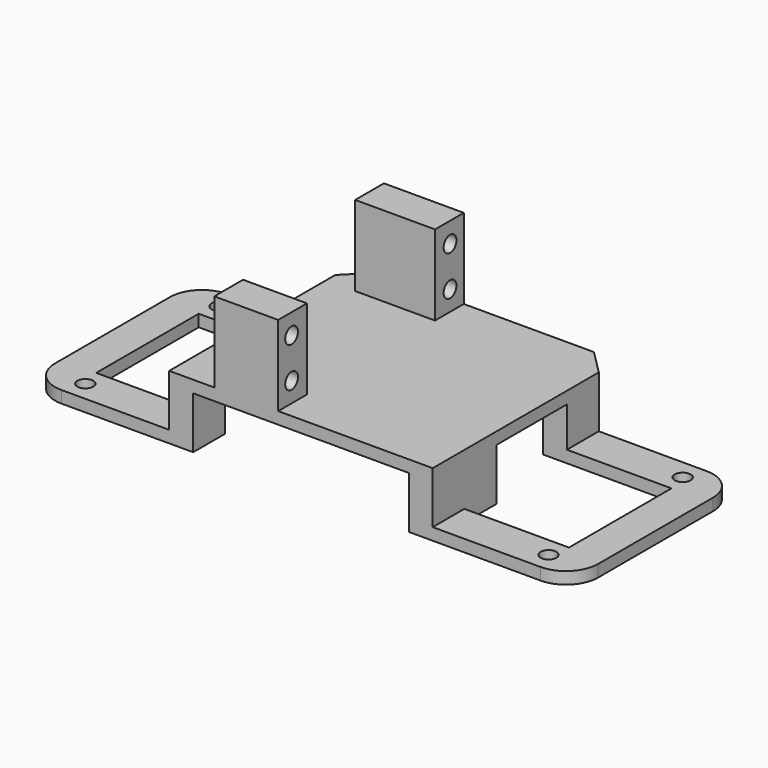
from build123d import *

# Parameters (mm, degrees)
CYLINDER382_R     = 2
CYLINDER382_DEPTH = 70
CYLINDER383_R     = 2
CYLINDER383_DEPTH = 70
BOX476_W          = 8.8
BOX476_H          = 52
BOX476_DEPTH      = 3
BOX473_W          = 41
BOX473_H          = 10
BOX473_DEPTH      = 3
BOX471_W          = 41
BOX471_H          = 9.9
BOX471_DEPTH      = 3
FILLET021_R       = 8
BOX411_W          = 6
BOX411_H          = 10
BOX411_DEPTH      = 16
BOX286_W          = 6
BOX286_H          = 9.9
BOX286_DEPTH      = 16
BOX409_W          = 6
BOX409_H          = 10
BOX409_DEPTH      = 16
BOX288_W          = 6
BOX288_H          = 20
BOX288_DEPTH      = 16
CYLINDER180_R     = 2
CYLINDER180_DEPTH = 33
CYLINDER179_R     = 2
CYLINDER179_DEPTH = 30
CYLINDER182_R     = 2
CYLINDER182_DEPTH = 33
CYLINDER181_R     = 2
CYLINDER181_DEPTH = 30
BOX408_W          = 20
BOX408_H          = 9
BOX408_DEPTH      = 20.1
BOX281_W          = 16
BOX281_H          = 9
BOX281_DEPTH      = 20.1
BOX283_W          = 66
BOX283_H          = 58.1
BOX283_DEPTH      = 3
CHAMFER044_SIZE   = 6.1
CYLINDER380_R     = 2
CYLINDER380_DEPTH = 65
CYLINDER381_R     = 2
CYLINDER381_DEPTH = 65
BOX475_W          = 8.8
BOX475_H          = 52
BOX475_DEPTH      = 3
BOX474_W          = 41
BOX474_H          = 10
BOX474_DEPTH      = 3
BOX472_W          = 41
BOX472_H          = 9.9
BOX472_DEPTH      = 3
FILLET019_R       = 8


with BuildPart() as cylinder382:
    # Cylinder382 → Cylinder382 (new body)
    with BuildSketch(Plane(origin=(-90, -103, -10), x_dir=(1, 0, 0), z_dir=(0, 0, 1))):
        Circle(CYLINDER382_R)
    extrude(amount=CYLINDER382_DEPTH)


with BuildPart() as fusion374:
    # Cylinder383 → Cylinder383 (new body)
    with BuildSketch(Plane(origin=(-90, -61, -10), x_dir=(1, 0, 0), z_dir=(0, 0, 1))):
        Circle(CYLINDER383_R)
    extrude(amount=CYLINDER383_DEPTH)

    # Fusion374: union Cylinder382
    add(cylinder382.part)


with BuildPart() as fusion374_1:
    # Fusion374 placement: moved
    add(fusion374.part.moved(Location((114, 0, 0))))


with BuildPart() as box476:
    # Box476 → Box476 (new body)
    with BuildSketch(Plane(origin=(25.2, -108, 46.1), x_dir=(1, 0, 0), z_dir=(0, 0, 1))):
        with Locations((4.4, 26)):
            Rectangle(BOX476_W, BOX476_H)
    extrude(amount=BOX476_DEPTH)


with BuildPart() as box473:
    # Box473 → Box473 (new body)
    with BuildSketch(Plane(origin=(-7, -66, 46.1), x_dir=(1, 0, 0), z_dir=(0, 0, 1))):
        with Locations((20.5, 5)):
            Rectangle(BOX473_W, BOX473_H)
    extrude(amount=BOX473_DEPTH)


with BuildPart() as fillet021:
    # Box471 → Box471 (new body)
    with BuildSketch(Plane(origin=(-7, -108, 46.1), x_dir=(1, 0, 0), z_dir=(0, 0, 1))):
        with Locations((20.5, 4.95)):
            Rectangle(BOX471_W, BOX471_H)
    extrude(amount=BOX471_DEPTH)

    # Fusion376: union Box476, Box473
    add(box476.part)
    add(box473.part)

    # Cut414: cut Fusion374
    add(fusion374_1.part, mode=Mode.SUBTRACT)

    # Fillet021
    fillet021_edges = [fillet021.edges().sort_by_distance(p)[0] for p in [
        (34, -108, 47.6),
        (34, -56, 47.6),
    ]]
    fillet(fillet021_edges, radius=FILLET021_R)


with BuildPart() as box411:
    # Box411 → Box411 (new body)
    with BuildSketch(Plane(origin=(-7, -66, 46.1), x_dir=(1, 0, 0), z_dir=(0, 0, 1))):
        with Locations((3, 5)):
            Rectangle(BOX411_W, BOX411_H)
    extrude(amount=BOX411_DEPTH)


with BuildPart() as box286:
    # Box286 → Box286 (new body)
    with BuildSketch(Plane(origin=(-67, -108, 46.1), x_dir=(1, 0, 0), z_dir=(0, 0, 1))):
        with Locations((3, 4.95)):
            Rectangle(BOX286_W, BOX286_H)
    extrude(amount=BOX286_DEPTH)


with BuildPart() as box409:
    # Box409 → Box409 (new body)
    with BuildSketch(Plane(origin=(-67, -66, 46.1), x_dir=(1, 0, 0), z_dir=(0, 0, 1))):
        with Locations((3, 5)):
            Rectangle(BOX409_W, BOX409_H)
    extrude(amount=BOX409_DEPTH)


with BuildPart() as fusion377:
    # Box288 → Box288 (new body)
    with BuildSketch(Plane(origin=(-7, -108, 46.1), x_dir=(1, 0, 0), z_dir=(0, 0, 1))):
        with Locations((3, 10)):
            Rectangle(BOX288_W, BOX288_H)
    extrude(amount=BOX288_DEPTH)

    # Fusion377: union Box411, Box286, Box409
    add(box411.part)
    add(box286.part)
    add(box409.part)


with BuildPart() as cylinder180:
    # Cylinder180 → Cylinder180 (new body)
    with BuildSketch(Plane(origin=(-74.6, -105.8, 63), x_dir=(0, 0, -1), z_dir=(1, 0, 0))):
        Circle(CYLINDER180_R)
    extrude(amount=CYLINDER180_DEPTH)


with BuildPart() as fusion247:
    # Cylinder179 → Cylinder179 (new body)
    with BuildSketch(Plane(origin=(-71.6, -105.8, 73), x_dir=(0, 0, -1), z_dir=(1, 0, 0))):
        Circle(CYLINDER179_R)
    extrude(amount=CYLINDER179_DEPTH)

    # Fusion247: union Cylinder180
    add(cylinder180.part)


with BuildPart() as fusion247_1:
    # Fusion247 placement: moved
    add(fusion247.part.moved(Location((0, 2, 4))))


with BuildPart() as cylinder182:
    # Cylinder182 → Cylinder182 (new body)
    with BuildSketch(Plane(origin=(-74.6, -56.2, 63), x_dir=(0, 0, -1), z_dir=(1, 0, 0))):
        Circle(CYLINDER182_R)
    extrude(amount=CYLINDER182_DEPTH)


with BuildPart() as fusion252:
    # Cylinder181 → Cylinder181 (new body)
    with BuildSketch(Plane(origin=(-71.6, -56.2, 73), x_dir=(0, 0, -1), z_dir=(1, 0, 0))):
        Circle(CYLINDER181_R)
    extrude(amount=CYLINDER181_DEPTH)

    # Fusion246: union Cylinder182
    add(cylinder182.part)


with BuildPart() as fusion252_1:
    # Fusion246 placement: moved
    add(fusion252.part.moved(Location((0, 2, 4))))

    # Fusion252: union Fusion247
    add(fusion247_1.part)


with BuildPart() as box408:
    # Box408 → Box408 (new body)
    with BuildSketch(Plane(origin=(-64.3, -58.9, 62), x_dir=(1, 0, 0), z_dir=(0, 0, 1))):
        with Locations((10, 4.5)):
            Rectangle(BOX408_W, BOX408_H)
    extrude(amount=BOX408_DEPTH)


with BuildPart() as box281:
    # Box281 → Box281 (new body)
    with BuildSketch(Plane(origin=(-60.3, -108, 62), x_dir=(1, 0, 0), z_dir=(0, 0, 1))):
        with Locations((8, 4.5)):
            Rectangle(BOX281_W, BOX281_H)
    extrude(amount=BOX281_DEPTH)


with BuildPart() as chamfer044:
    # Box283 → Box283 (new body)
    with BuildSketch(Plane(origin=(-71.6, -108, 59), x_dir=(1, 0, 0), z_dir=(0, 0, 1))):
        with Locations((33, 29.05)):
            Rectangle(BOX283_W, BOX283_H)
    extrude(amount=BOX283_DEPTH)

    # Fusion372: union Box408, Box281
    add(box408.part)
    add(box281.part)

    # Cut412: cut Fusion252
    add(fusion252_1.part, mode=Mode.SUBTRACT)


with BuildPart() as chamfer044_1:
    # Cut412 placement: moved
    add(chamfer044.part.moved(Location((4.7, 0, 0.1))))

    # Chamfer044
    chamfer044_edges = [chamfer044_1.edges().sort_by_distance(p)[0] for p in [
        (-66.9, -49.9, 60.6),
        (-0.9, -49.9, 60.6),
    ]]
    chamfer(chamfer044_edges, length=CHAMFER044_SIZE)


with BuildPart() as chamfer044_2:
    # Chamfer044 placement: moved
    add(chamfer044_1.part.moved(Location((-0.1, 0, 0))))


with BuildPart() as cylinder380:
    # Cylinder380 → Cylinder380 (new body)
    with BuildSketch(Plane(origin=(-90, -103, -10), x_dir=(1, 0, 0), z_dir=(0, 0, 1))):
        Circle(CYLINDER380_R)
    extrude(amount=CYLINDER380_DEPTH)


with BuildPart() as fusion373:
    # Cylinder381 → Cylinder381 (new body)
    with BuildSketch(Plane(origin=(-90, -61, -10), x_dir=(1, 0, 0), z_dir=(0, 0, 1))):
        Circle(CYLINDER381_R)
    extrude(amount=CYLINDER381_DEPTH)

    # Fusion373: union Cylinder380
    add(cylinder380.part)


with BuildPart() as fusion373_1:
    # Fusion373 placement: moved
    add(fusion373.part.moved(Location((-2, 0, 0))))


with BuildPart() as box475:
    # Box475 → Box475 (new body)
    with BuildSketch(Plane(origin=(-102, -108, 46.1), x_dir=(1, 0, 0), z_dir=(0, 0, 1))):
        with Locations((4.4, 26)):
            Rectangle(BOX475_W, BOX475_H)
    extrude(amount=BOX475_DEPTH)


with BuildPart() as box474:
    # Box474 → Box474 (new body)
    with BuildSketch(Plane(origin=(-102, -66, 46.1), x_dir=(1, 0, 0), z_dir=(0, 0, 1))):
        with Locations((20.5, 5)):
            Rectangle(BOX474_W, BOX474_H)
    extrude(amount=BOX474_DEPTH)


with BuildPart() as rescue_arm_stand:
    # Box472 → Box472 (new body)
    with BuildSketch(Plane(origin=(-102, -108, 46.1), x_dir=(1, 0, 0), z_dir=(0, 0, 1))):
        with Locations((20.5, 4.95)):
            Rectangle(BOX472_W, BOX472_H)
    extrude(amount=BOX472_DEPTH)

    # Fusion375: union Box475, Box474
    add(box475.part)
    add(box474.part)

    # Cut413: cut Fusion373
    add(fusion373_1.part, mode=Mode.SUBTRACT)

    # Fillet019
    fillet019_edges = [rescue_arm_stand.edges().sort_by_distance(p)[0] for p in [
        (-102, -108, 47.6),
        (-102, -56, 47.6),
    ]]
    fillet(fillet019_edges, radius=FILLET019_R)

    # Fusion378: union Fillet021, Fusion377, Chamfer044
    add(fillet021.part)
    add(fusion377.part)
    add(chamfer044_2.part)


solid = rescue_arm_stand.part
